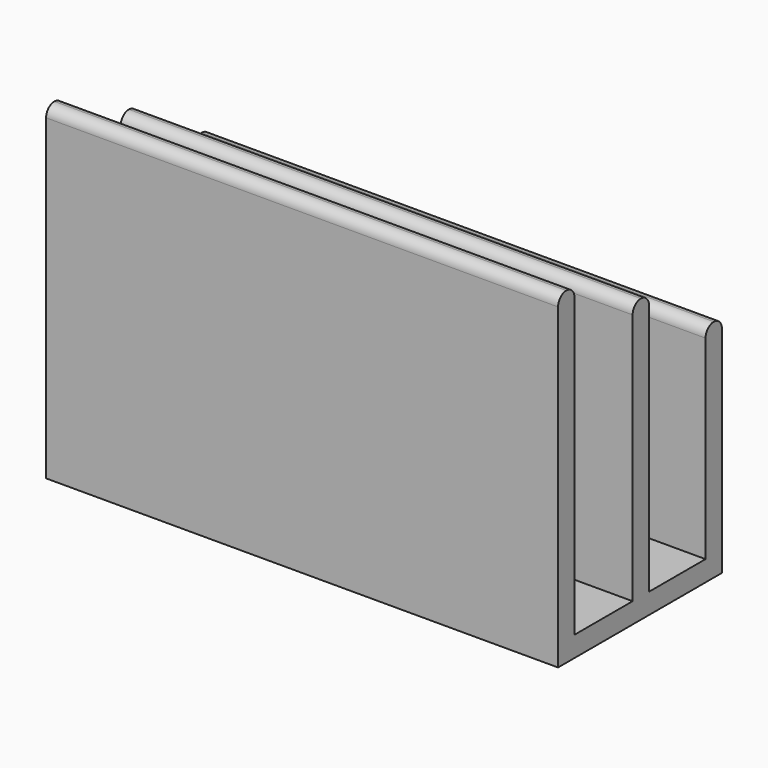
from build123d import *

# Parameters (mm, degrees)
F1_DEPTH = 127


with BuildPart() as f1:
    # F0 (on Right) → F1 (new body)
    with BuildSketch(Plane.YZ):
        with BuildLine():
            Line((-25.4, 76.2), (-25.4, 2.54))
            Line((-25.4, 2.54), (-20.32, 2.54))
            Line((-20.32, 2.54), (-20.32, 76.2))
            ThreePointArc((-20.32, 76.2), (-21.063949, 77.996051), (-22.86, 78.74))
            ThreePointArc((-22.86, 78.74), (-24.656051, 77.996051), (-25.4, 76.2))
        make_face()
        Polygon((-20.32, 2.54), (-25.4, 2.54), (-25.4, -2.54), (25.4, -2.54), (25.4, 2.54), (20.32, 2.54), (2.798074, 2.54), (-2.281926, 2.54), align=None)
        with BuildLine():
            Line((-2.281926, 65.054222), (-2.281926, 2.54))
            Line((-2.281926, 2.54), (2.798074, 2.54))
            Line((2.798074, 2.54), (2.798074, 65.054222))
            ThreePointArc((2.798074, 65.054222), (2.054126, 66.850273), (0.258074, 67.594222))
            ThreePointArc((0.258074, 67.594222), (-1.537977, 66.850273), (-2.281926, 65.054222))
        make_face()
        with BuildLine():
            Line((20.32, 2.54), (25.4, 2.54))
            Line((25.4, 2.54), (25.4, 50.8))
            ThreePointArc((25.4, 50.8), (24.656051, 52.596051), (22.86, 53.34))
            ThreePointArc((22.86, 53.34), (21.063949, 52.596051), (20.32, 50.8))
            Line((20.32, 50.8), (20.32, 2.54))
        make_face()
    extrude(amount=F1_DEPTH)


solid = f1.part
